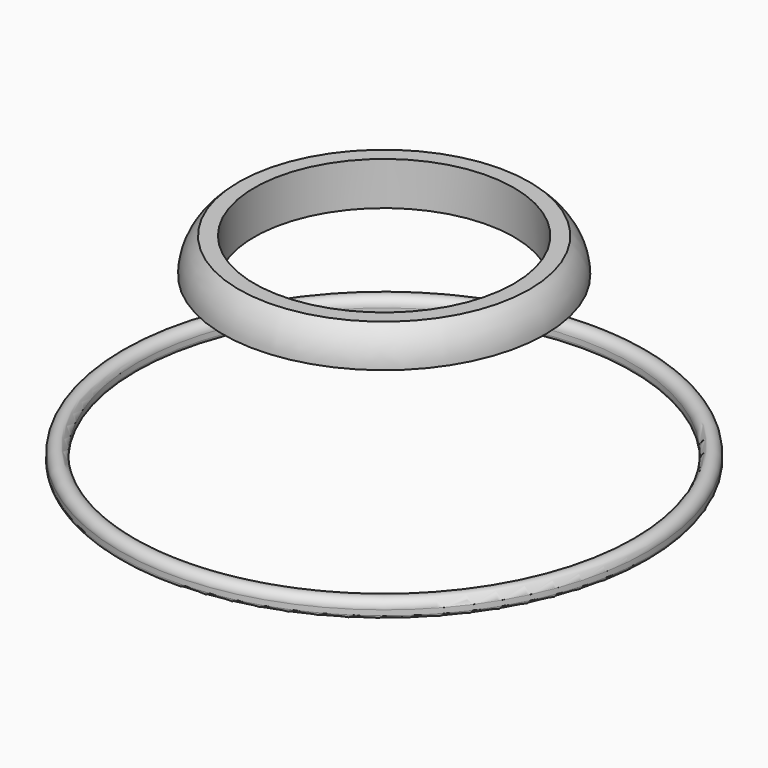
from build123d import *

# Parameters (mm, degrees)
F0_W = 2
F0_H = 1
F2_R = 0.4
F3_R = 0.4


with BuildPart() as f1:
    # F0 (on Front) → F1 (revolve)
    with BuildSketch(Plane.XZ):
        with BuildLine():
            Line((28.5, 0), (30.5, 0))
            ThreePointArc((30.5, 0), (29.5, 1), (28.5, 0))
        make_face()
        with Locations((29.5, -0.5)):
            Rectangle(F0_W, F0_H)
        with BuildLine():
            Line((15, 22.179975), (15, 17.179975))
            Line((15, 17.179975), (16.2, 17.179975))
            Line((16.2, 17.179975), (16.2, 21.64151))
            ThreePointArc((16.2, 21.64151), (17.380652, 20.086689), (17.8, 18.179975))
            Line((17.8, 18.179975), (18.6, 18.179975))
            ThreePointArc((18.6, 18.179975), (18.129269, 20.373147), (16.8, 22.179975))
            Line((16.8, 22.179975), (15, 22.179975))
        make_face()
    revolve(axis=Axis((0, 0, 0.963449), (0, 0, 1)))

    # F2
    f2_edges = [f1.edges().sort_by_distance(p)[0] for p in [
        (-28.5, 0, -1),
        (-30.5, 0, -1),
    ]]
    fillet(f2_edges, radius=F2_R)

    # F3
    f3_edges = [f1.edges().sort_by_distance(p)[0] for p in [
        (-16.2, 0, 21.64151),
    ]]
    fillet(f3_edges, radius=F3_R)


solid = f1.part
